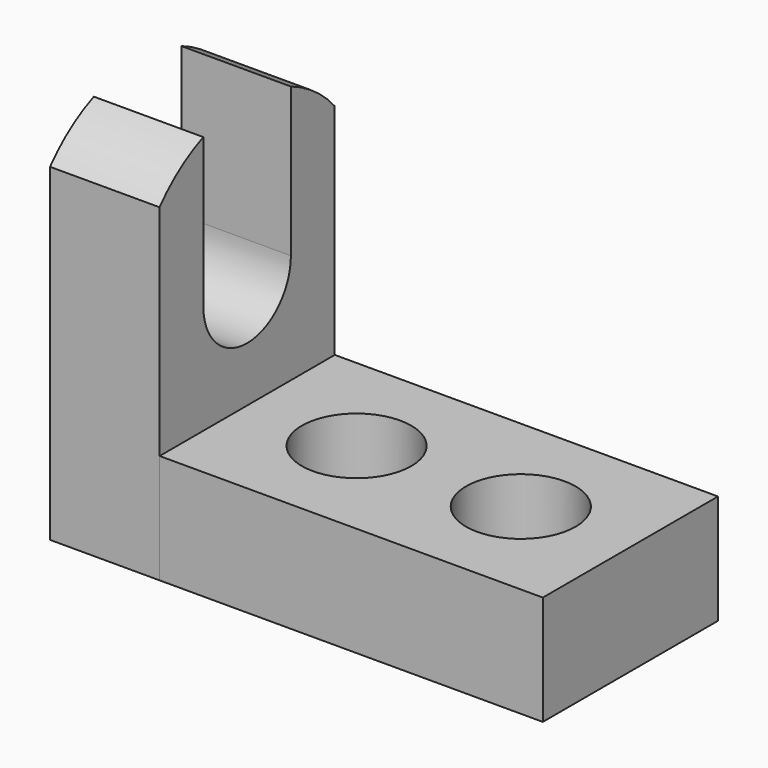
from build123d import *

# Parameters (mm, degrees)
F1_DEPTH = 12.7
F2_W     = 44.45
F2_H     = 25.4
F3_DEPTH = 12.7
F4_R     = 6.35
F5_DEPTH = 25.4
F7_DEPTH = 12.7


with BuildPart() as f1:
    # F0 (on Right) → F1 (new body)
    with BuildSketch(Plane.YZ):
        with BuildLine():
            Line((-25.4, 0), (0, 0))
            Line((0, 0), (0, 44.45))
            Line((0, 44.45), (-6.35, 44.45))
            Line((-6.35, 44.45), (-6.35, 25.4))
            ThreePointArc((-6.35, 25.4), (-12.7, 19.05), (-19.05, 25.4))
            Line((-19.05, 25.4), (-19.05, 44.45))
            Line((-19.05, 44.45), (-25.4, 44.45))
            Line((-25.4, 44.45), (-25.4, 0))
        make_face()
    extrude(amount=F1_DEPTH)

    # F6 (on face) → F7 (cut)
    with BuildSketch(Plane(origin=(0, 0, 0), x_dir=(0, -1, 0), z_dir=(-1, 0, 0))):
        with BuildLine():
            ThreePointArc((0, 38.1), (2.903281, 40.767818), (6.35, 42.682609))
            Line((6.35, 42.682609), (6.35, 44.45))
            Line((6.35, 44.45), (0, 44.45))
            Line((0, 44.45), (0, 38.1))
        make_face()
        with BuildLine():
            ThreePointArc((19.05, 42.682609), (22.496719, 40.767818), (25.4, 38.1))
            Line((25.4, 38.1), (25.4, 44.45))
            Line((25.4, 44.45), (19.05, 44.45))
            Line((19.05, 44.45), (19.05, 42.682609))
        make_face()
    extrude(amount=-F7_DEPTH, mode=Mode.SUBTRACT)


with BuildPart() as f3:
    # F2 (on Top) → F3 (new body)
    with BuildSketch(Plane.XY):
        with Locations((34.939058, -12.7)):
            Rectangle(F2_W, F2_H)
    extrude(amount=F3_DEPTH)

    # F4 (on Top) → F5 (cut)
    with BuildSketch(Plane.XY):
        with Locations((25.4, -12.7)):
            Circle(F4_R)
        with Locations((44.45, -12.7)):
            Circle(F4_R)
    extrude(amount=F5_DEPTH, mode=Mode.SUBTRACT)


solid = Compound([f1.part, f3.part])
